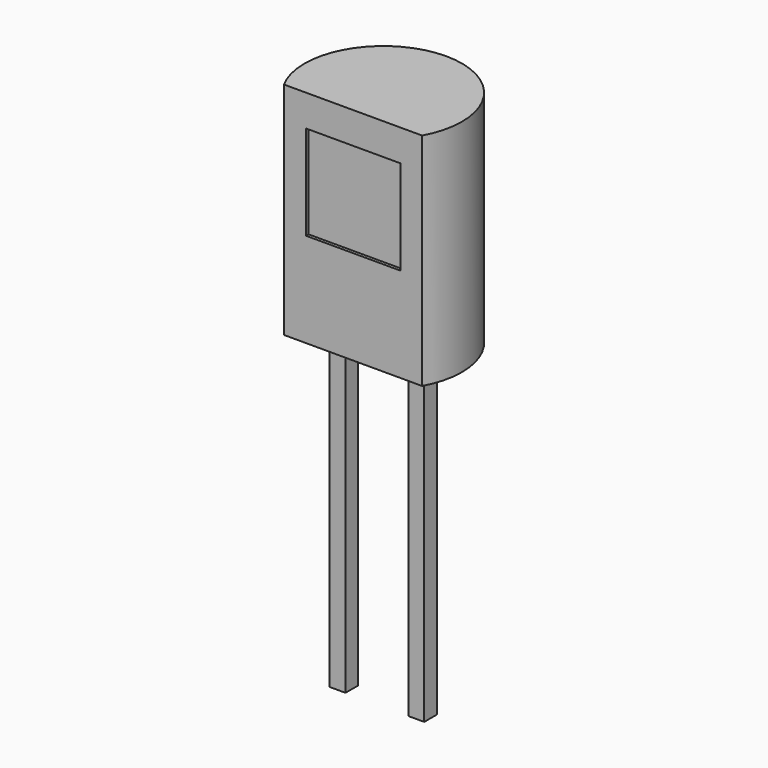
from build123d import *

# Parameters (mm, degrees)
PAD005_DEPTH    = 7
SKETCH018_W     = 0.5
SKETCH018_H     = 0.5
PAD006_DEPTH    = 10
SKETCH019_W     = 3
SKETCH019_H     = 3
POCKET003_DEPTH = 0.1


with BuildPart() as part:
    # Sketch017 → Pad005 (new body)
    with BuildSketch(Plane.XY):
        with BuildLine():
            ThreePointArc((2.193171, -1.2), (0, 2.5), (-2.193171, -1.2))
            Line((-2.193171, -1.2), (2.193171, -1.2))
        make_face()
    extrude(amount=PAD005_DEPTH)

    # Sketch018 (on Face3 of Pad005) → Pad006 (join)
    with BuildSketch(Plane(origin=(0, 0, 0), x_dir=(1, 0, 0), z_dir=(0, 0, -1))):
        with Locations((-1.25, 0)):
            Rectangle(SKETCH018_W, SKETCH018_H)
        with Locations((1.25, 0)):
            Rectangle(SKETCH018_W, SKETCH018_H)
    extrude(amount=PAD006_DEPTH)

    # Sketch019 (on Face2 of Pad006) → Pocket003 (cut)
    with BuildSketch(Plane.XZ.offset(1.2)):
        with Locations((0, 4.5)):
            Rectangle(SKETCH019_W, SKETCH019_H)
    extrude(amount=-POCKET003_DEPTH, mode=Mode.SUBTRACT)


solid = part.part
